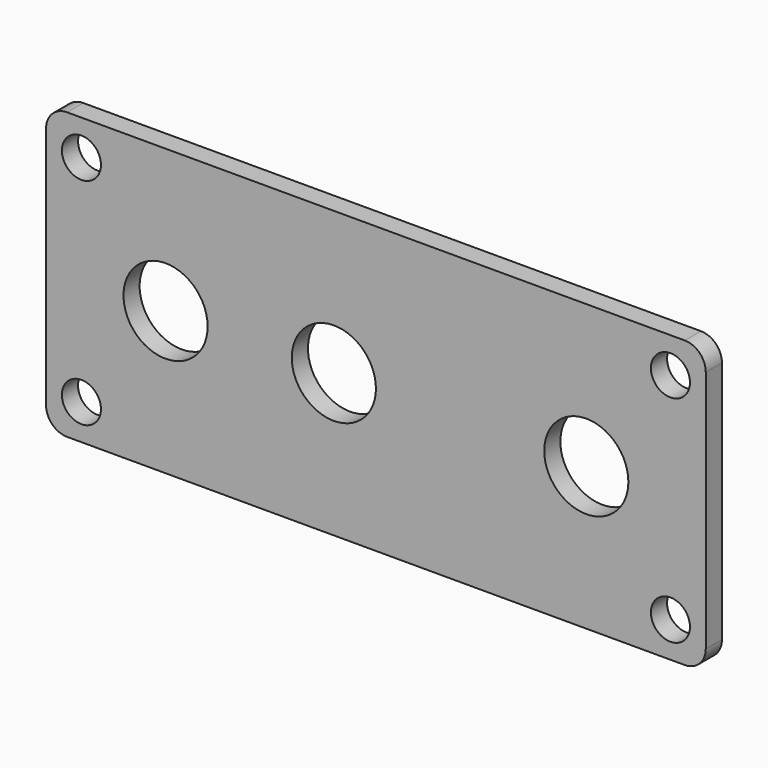
from build123d import *

# Parameters (mm, degrees)
F0_R     = 1.4732
F0_R_2   = 3.175
F1_DEPTH = 1.524


with BuildPart() as f1:
    # F0 (on Front) → F1 (new body)
    with BuildSketch(Plane.XZ):
        with BuildLine():
            Line((23.3045, 10.7823), (-23.3045, 10.7823))
            ThreePointArc((-23.3045, 10.7823), (-24.427032, 10.317332), (-24.892, 9.1948))
            Line((-24.892, 9.1948), (-24.892, -9.1948))
            ThreePointArc((-24.892, -9.1948), (-24.427032, -10.317332), (-23.3045, -10.7823))
            Line((-23.3045, -10.7823), (23.3045, -10.7823))
            ThreePointArc((23.3045, -10.7823), (24.427032, -10.317332), (24.892, -9.1948))
            Line((24.892, -9.1948), (24.892, 9.1948))
            ThreePointArc((24.892, 9.1948), (24.427032, 10.317332), (23.3045, 10.7823))
        make_face()
        with Locations((-22.225, -8.1153)):
            Circle(F0_R, mode=Mode.SUBTRACT)
        with Locations((22.225, -8.1153)):
            Circle(F0_R, mode=Mode.SUBTRACT)
        with Locations((-15.875, 0)):
            Circle(F0_R_2, mode=Mode.SUBTRACT)
        with Locations((-3.175, 0)):
            Circle(F0_R_2, mode=Mode.SUBTRACT)
        with Locations((-22.225, 8.1153)):
            Circle(F0_R, mode=Mode.SUBTRACT)
        with Locations((15.875, 0)):
            Circle(F0_R_2, mode=Mode.SUBTRACT)
        with Locations((22.225, 8.1153)):
            Circle(F0_R, mode=Mode.SUBTRACT)
    extrude(amount=F1_DEPTH)


solid = f1.part
